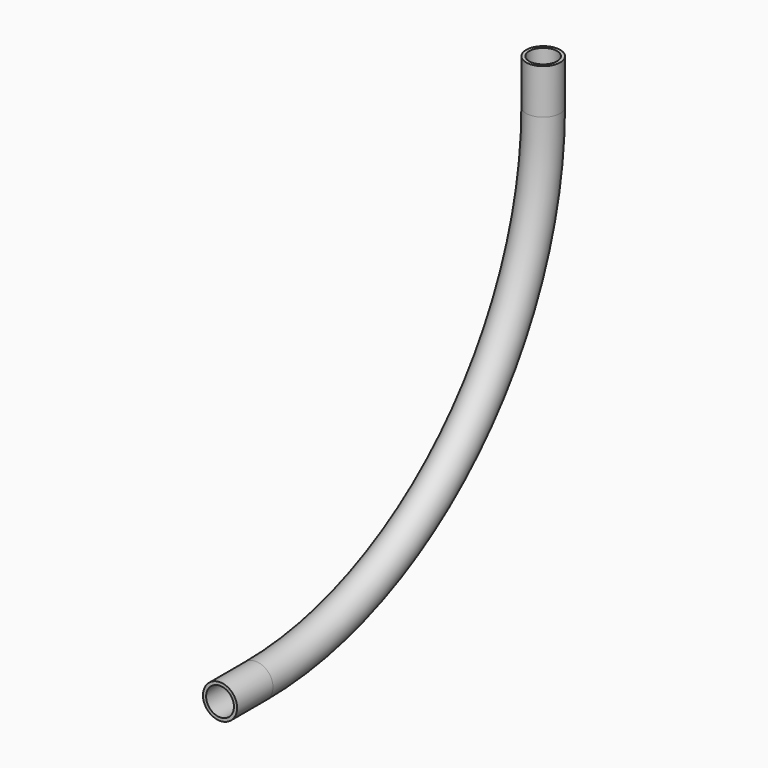
from build123d import *

# Parameters (mm, degrees)
F0_R   = 19
F0_R_2 = 15.5


with BuildPart() as f2:
    # F2: sweep along a path in F1
    with BuildLine(Plane.YZ) as f2_path:
        Line((0, 0), (50, 0))
        ThreePointArc((50, 0), (332.8427124746, 117.1572875254), (450, 400))
        Line((450, 400), (450, 450))
    # F0 (on Front) → F2 (sweep)
    with BuildSketch(Plane.XZ):
        Circle(F0_R)
        Circle(F0_R_2, mode=Mode.SUBTRACT)
    sweep(path=f2_path.line)


solid = f2.part
